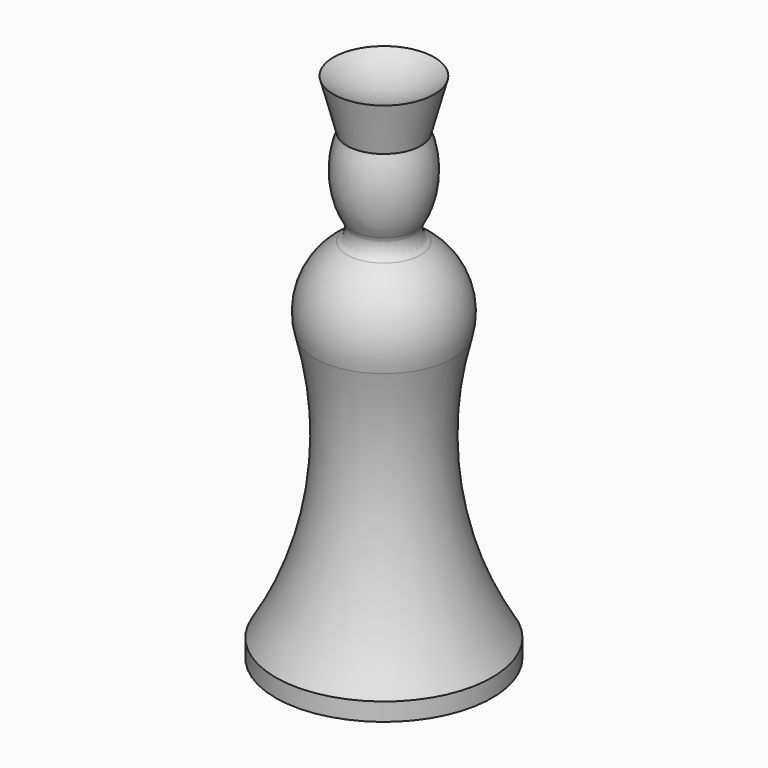
from build123d import *

# Parameters (mm, degrees)
F2_R = 2.54


with BuildPart() as f1:
    # F0 (on Front) → F1 (revolve)
    with BuildSketch(Plane.XZ):
        with BuildLine():
            Line((0, 40.132), (0, 87.3506))
            ThreePointArc((0, 87.3506), (-4.7199768273, 88.1681648836), (-8.89, 90.5256))
            Line((-8.89, 90.5256), (-6.5449999258, 81.7739405792))
            add(Edge.make_bspline(
                [(-6.5449999258, 81.7739405792), (-10.5023747002, 71.8176961368), (-3.81, 66.0219296347)],
                knots=[1.0331645714, 1.0331645714, 1.0331645714, 2.617993878, 2.617993878, 2.617993878], degree=2, weights=[1, 0.7021280086, 1]))
            ThreePointArc((-3.81, 66.0219296347), (-11.1405483174, 60.0042932836), (-12.2581887711, 50.5862379799))
            ThreePointArc((-12.2581887711, 50.5862379799), (-10.7830325107, 26.1694758028), (-19.1262, 3.175))
            Line((-19.1262, 3.175), (-19.1262, 0))
            Line((-19.1262, 0), (-11.176, 0))
            Line((-11.176, 0), (-11.176, 8.509))
            Line((-11.176, 8.509), (-6.604, 13.081))
            Line((-6.604, 13.081), (-6.604, 33.528))
            Line((-6.604, 33.528), (0, 40.132))
        make_face()
    revolve(axis=Axis((0, 0, 63.7413), (0, 0, -1)))

    # F2
    f2_edges = [f1.edges().sort_by_distance(p)[0] for p in [
        (3.81, 0, 66.02193),
    ]]
    fillet(f2_edges, radius=F2_R)


solid = f1.part
